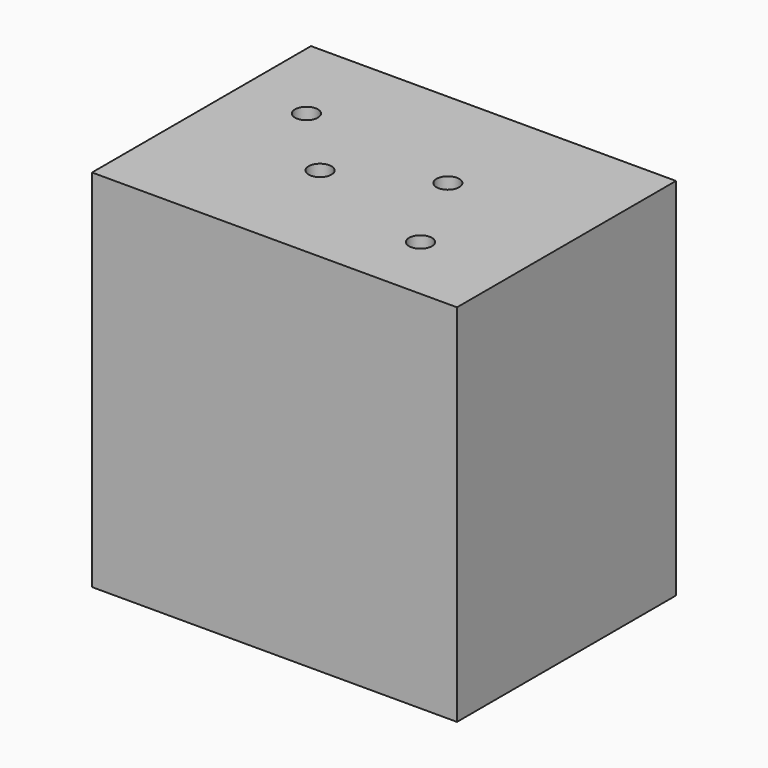
from build123d import *

# Parameters (mm, degrees)
F0_W     = 80
F0_H     = 60
F1_DEPTH = 80
F3_D     = 5


with BuildPart() as f1:
    # F0 (on Top) → F1 (new body)
    with BuildSketch(Plane.XY):
        with Locations((40, 30)):
            Rectangle(F0_W, F0_H)
    extrude(amount=F1_DEPTH)

    # F3 (through all)
    with Locations(Plane.XY.offset(80)):
        with Locations((15, 40), (30, 24.983935), (60, 15), (50, 35)):
            Hole(F3_D / 2)


solid = f1.part
